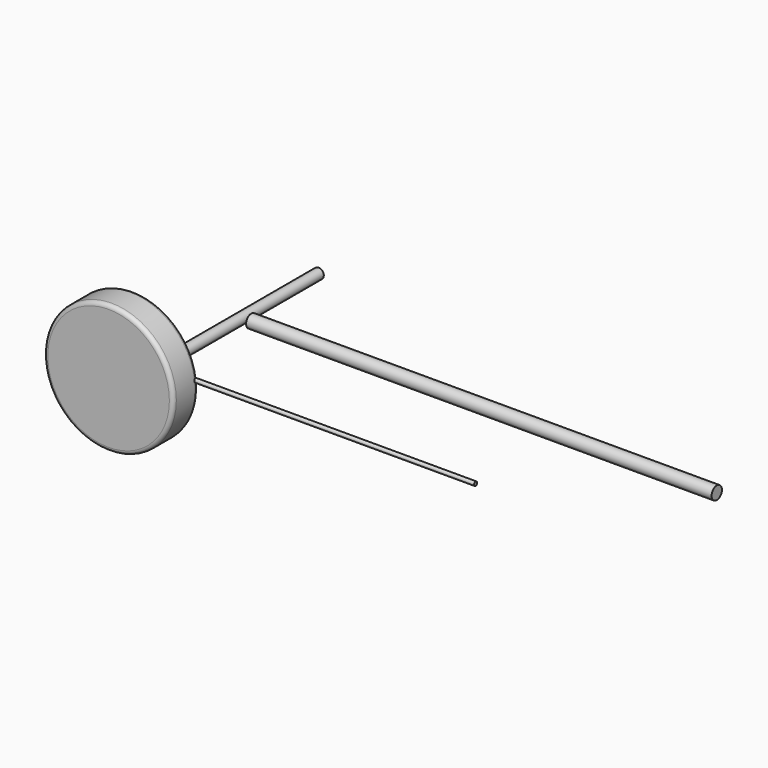
from build123d import *

# Parameters (mm, degrees)
F0_R     = 250
F1_DEPTH = 120
F2_R     = 15
F3_R     = 20
F4_DEPTH = 800
F5_R     = 7.5
F6_DEPTH = 1200
F7_R     = 25
F8_DEPTH = 1800


with BuildPart() as f1:
    # F0 (on Front) → F1 (new body)
    with BuildSketch(Plane.XZ):
        with Locations((-129.801795, -23.539526)):
            Circle(F0_R)
    extrude(amount=F1_DEPTH)

    # F2
    f2_edges = [f1.edges().sort_by_distance(p)[0] for p in [
        (-379.801795, 0, -23.539526),
        (120.198205, -60, -23.539526),
        (-379.801795, -120, -23.539526),
    ]]
    fillet(f2_edges, radius=F2_R)


with BuildPart() as f4:
    # F3 (on Front) → F4 (new body)
    with BuildSketch(Plane.XZ):
        with Locations((-53.574227, -15.604964)):
            Circle(F3_R)
    extrude(amount=-F4_DEPTH)


with BuildPart() as f6:
    # F5 (on Right) → F6 (new body)
    with BuildSketch(Plane.YZ):
        with Locations((-8.4748, 4.92485)):
            Circle(F5_R)
    extrude(amount=F6_DEPTH)


with BuildPart() as f8:
    # F7 (on Right) → F8 (new body)
    with BuildSketch(Plane.YZ):
        with Locations((407.407492, 0)):
            Circle(F7_R)
    extrude(amount=F8_DEPTH)


solid = Compound([f1.part, f4.part, f6.part, f8.part])
